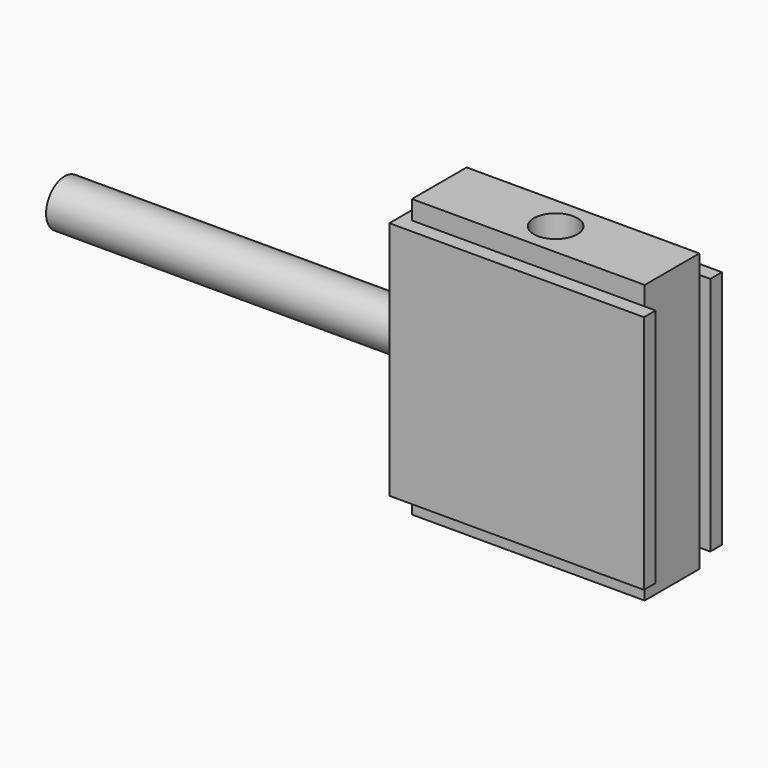
from build123d import *

# Parameters (mm, degrees)
F0_W      = 16
F0_H      = 19.1
F1_DEPTH  = 2.35
F2_W      = 17.5
F2_H      = 16.5
F3_DEPTH  = 1
F4_DEPTH  = 2.35
F6_R      = 1.6
F7_DEPTH  = 25
F8_R      = 1.5
F9_DEPTH  = 2.8
F10_R     = 1.5
F11_DEPTH = 2.8


with BuildPart() as f1:
    # F0 (on Front) → F1 (new body)
    with BuildSketch(Plane.XZ):
        Rectangle(F0_W, F0_H)
    extrude(amount=F1_DEPTH)

    # F2 (on face) → F3 (join)
    with BuildSketch(Plane.XZ.offset(2.35)):
        Rectangle(F2_W, F2_H)
    extrude(amount=F3_DEPTH)

    # F4 (add, through all): a face of the model
    f4_faces = [f1.faces().sort_by_distance(p)[0] for p in [
        (-8.375, -2.35, 0),
    ]]
    extrude(f4_faces, amount=F4_DEPTH)

    # F5: F1 across plane


with BuildPart() as f1_1:
    add(f1.part)
    add(f1.part.mirror(Plane.XZ))

    # F6 (on face) → F7 (join)
    with BuildSketch(Plane(origin=(-8.75, 0, 0), x_dir=(0, -1, 0), z_dir=(-1, 0, 0))):
        Circle(F6_R)
    extrude(amount=F7_DEPTH)

    # F8 (on face) → F9 (cut)
    with BuildSketch(Plane.XY.offset(9.55)):
        Circle(F8_R)
    extrude(amount=-F9_DEPTH, mode=Mode.SUBTRACT)

    # F10 (on face) → F11 (cut)
    with BuildSketch(Plane(origin=(0, 0, -9.55), x_dir=(1, 0, 0), z_dir=(0, 0, -1))):
        Circle(F10_R)
    extrude(amount=-F11_DEPTH, mode=Mode.SUBTRACT)


solid = f1_1.part
